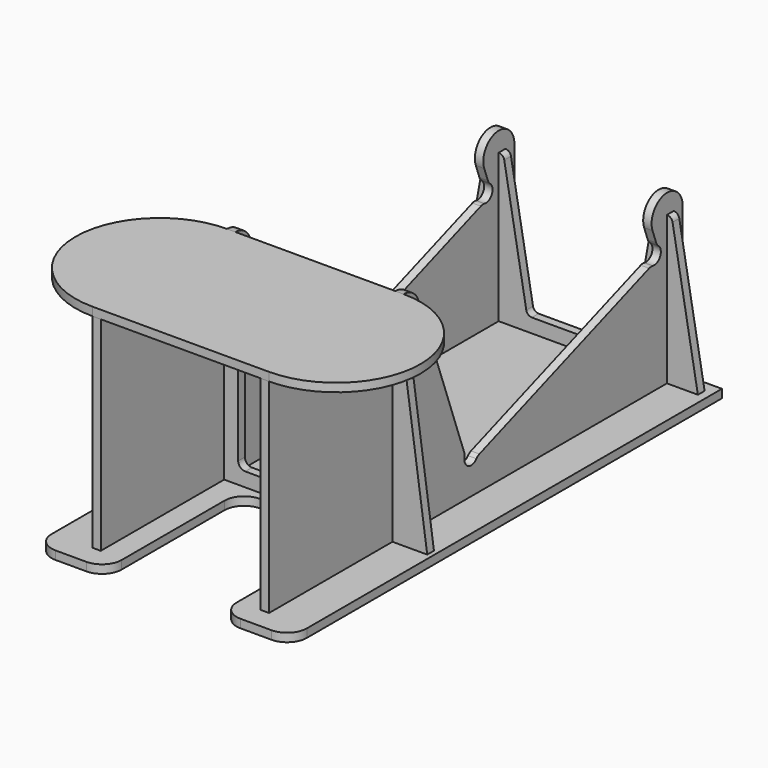
from build123d import *

# Parameters (mm, degrees)
PAD_DEPTH    = 1.5
PAD001_DEPTH = 1.5
SKETCH002_R  = 3.15
PAD002_DEPTH = 3
PAD003_DEPTH = 3
PAD004_DEPTH = 3
PAD005_DEPTH = 3


with BuildPart() as leftangle_b:
    # Sketch → Pad (new body, symmetric)
    with BuildSketch(Plane.YZ.offset(-30)):
        with BuildLine():
            ThreePointArc((-55.582745, 71.08002), (-58.145558, 74.419944), (-62.160593, 75.685879))
            Line((-62.160593, 75.685879), (-62.160593, 72.685879))
            Line((-62.160593, 72.685879), (-122.160593, 72.685879))
            Line((-122.160593, 72.685879), (-122.160593, 0))
            Line((-122.160593, 0), (-62.160593, 0))
            Line((62.160593, 0), (-62.160593, 0))
            Line((62.160593, 52.887103), (62.160593, 0))
            ThreePointArc((62.160593, 52.887103), (54.040443, 59.700718), (48.740392, 50.520759))
            Line((48.740392, 50.520759), (50.365893, 46.054732))
            ThreePointArc((50.365893, 46.054732), (50.748716, 45.330174), (51.31332, 44.73624))
            ThreePointArc((48.848712, 39.450871), (52.160593, 41.123833), (51.31332, 44.73624))
            ThreePointArc((48.848712, 39.450871), (48.030811, 39.50161), (47.229695, 39.329133))
            Line((-28.420537, 11.7947), (47.229695, 39.329133))
            ThreePointArc((-28.420537, 11.7947), (-29.145094, 11.411877), (-29.739029, 10.847273))
            ThreePointArc((-35.024397, 13.311881), (-33.351435, 10), (-29.739029, 10.847273))
            ThreePointArc((-35.024397, 13.311881), (-34.973659, 14.129782), (-35.146136, 14.930899))
            Line((-55.582745, 71.08002), (-35.146136, 14.930899))
        make_face()
    extrude(amount=PAD_DEPTH, both=True)


with BuildPart() as rightangle_b:
    # Sketch001 → Pad001 (new body, symmetric)
    with BuildSketch(Plane.YZ.offset(30)):
        with BuildLine():
            ThreePointArc((-55.582745, 71.08002), (-58.145558, 74.419944), (-62.160593, 75.685879))
            Line((-62.160593, 75.685879), (-62.160593, 72.685879))
            Line((-62.160593, 72.685879), (-122.160593, 72.685879))
            Line((-122.160593, 72.685879), (-122.160593, 0))
            Line((-122.160593, 0), (-62.160593, 0))
            Line((62.160593, 0), (-62.160593, 0))
            Line((62.160593, 52.887103), (62.160593, 0))
            ThreePointArc((62.160593, 52.887103), (54.040443, 59.700718), (48.740392, 50.520759))
            Line((50.365893, 46.054732), (48.740392, 50.520759))
            ThreePointArc((50.365893, 46.054732), (50.748716, 45.330174), (51.31332, 44.73624))
            ThreePointArc((48.848712, 39.450871), (52.160593, 41.123833), (51.31332, 44.73624))
            ThreePointArc((48.848712, 39.450871), (48.030811, 39.50161), (47.229695, 39.329133))
            Line((-28.420537, 11.7947), (47.229695, 39.329133))
            ThreePointArc((-28.420537, 11.7947), (-29.145094, 11.411877), (-29.739029, 10.847273))
            ThreePointArc((-35.024397, 13.311881), (-33.351435, 10), (-29.739029, 10.847273))
            ThreePointArc((-35.024397, 13.311881), (-34.973659, 14.129782), (-35.146136, 14.930899))
            Line((-55.582745, 71.08002), (-35.146136, 14.930899))
        make_face()
    extrude(amount=PAD001_DEPTH, both=True)


with BuildPart() as base_b:
    # Sketch002 (on Face1 of ReferencePad) → Pad002 (new body)
    with BuildSketch(Plane.YX):
        with BuildLine():
            Line((-129.839407, -38.5), (-129.839407, -27.5))
            ThreePointArc((-122.839407, -20.5), (-127.789154, -22.550253), (-129.839407, -27.5))
            Line((-122.839407, -20.5), (-77, -20.5))
            ThreePointArc((-77, -20.5), (-72.050253, -18.449747), (-70, -13.5))
            Line((-70, -13.5), (-70, 13.5))
            ThreePointArc((-70, 13.5), (-72.050253, 18.449747), (-77, 20.5))
            Line((-77, 20.5), (-122.839407, 20.5))
            ThreePointArc((-129.839407, 27.5), (-127.789154, 22.550253), (-122.839407, 20.5))
            Line((-129.839407, 27.5), (-129.839407, 38.5))
            ThreePointArc((-122.839407, 45.5), (-127.789154, 43.449747), (-129.839407, 38.5))
            Line((-122.839407, 45.5), (62.160593, 45.5))
            Line((62.160593, 45.5), (62.160593, -45.5))
            Line((62.160593, -45.5), (36.5, -45.5))
            ThreePointArc((36.5, -45.5), (31.550253, -47.550253), (29.5, -52.5))
            Line((29.5, -52.5), (29.5, -97.5))
            ThreePointArc((22.5, -104.5), (27.449747, -102.449747), (29.5, -97.5))
            Line((22.5, -104.5), (-22.5, -104.5))
            ThreePointArc((-29.5, -97.5), (-27.449747, -102.449747), (-22.5, -104.5))
            Line((-29.5, -97.5), (-29.5, -52.5))
            ThreePointArc((-29.5, -52.5), (-31.550253, -47.550253), (-36.5, -45.5))
            Line((-36.5, -45.5), (-122.839407, -45.5))
            ThreePointArc((-129.839407, -38.5), (-127.789154, -43.449747), (-122.839407, -45.5))
        make_face()
        with Locations((-12.7, -96.3)):
            Circle(SKETCH002_R, mode=Mode.SUBTRACT)
        with Locations((-12.7, -70.9)):
            Circle(SKETCH002_R, mode=Mode.SUBTRACT)
        with Locations((12.7, -70.9)):
            Circle(SKETCH002_R, mode=Mode.SUBTRACT)
        with Locations((12.7, -96.3)):
            Circle(SKETCH002_R, mode=Mode.SUBTRACT)
    extrude(amount=PAD002_DEPTH)


with BuildPart() as hand_b:
    # Sketch003 (on Face1 of ReferencePad001) → Pad003 (new body)
    with BuildSketch(Plane(origin=(0, 0, 72.685879), x_dir=(0, -1, 0), z_dir=(0, 0, 1))):
        with BuildLine():
            ThreePointArc((122.160593, 31.5), (92.160593, 61.5), (62.160593, 31.5))
            Line((62.160593, 31.5), (62.160593, -31.5))
            ThreePointArc((62.160593, -31.5), (92.160593, -61.5), (122.160593, -31.5))
            Line((122.160593, 31.5), (122.160593, -31.5))
        make_face()
    extrude(amount=PAD003_DEPTH)


with BuildPart() as stabilizer_far_b:
    # Sketch004 (on Face1 of ReferencePad001001) → Pad004 (new body)
    with BuildSketch(Plane.ZX.offset(62.160593)):
        with BuildLine():
            Line((0, 42.529511), (51.208904, 33.5))
            ThreePointArc((52.887103, 31.5), (52.411973, 32.805407), (51.208904, 33.5))
            Line((52.887103, 31.5), (52.887103, 28.5))
            ThreePointArc((51.208904, 26.5), (52.411973, 27.194593), (52.887103, 28.5))
            Line((51.208904, 26.5), (6.678199, 18.648035))
            ThreePointArc((6.678199, 18.648035), (5.475129, 17.953443), (5, 16.648035))
            Line((5, 16.648035), (5, -16.648035))
            ThreePointArc((5, -16.648035), (5.475129, -17.953443), (6.678199, -18.648035))
            Line((6.678199, -18.648035), (51.208904, -26.5))
            ThreePointArc((52.887103, -28.5), (52.411973, -27.194593), (51.208904, -26.5))
            Line((52.887103, -28.5), (52.887103, -31.5))
            ThreePointArc((51.208904, -33.5), (52.411973, -32.805407), (52.887103, -31.5))
            Line((51.208904, -33.5), (0, -42.529511))
            Line((0, -42.529511), (0, 42.529511))
        make_face()
    extrude(amount=-PAD004_DEPTH)


with BuildPart() as stabilizer_far_b_1:
    # Body004 placement: moved
    add(stabilizer_far_b.part.moved(Location((0, -4, 0))))


with BuildPart() as stabilizer_close_b:
    # Sketch005 (on Face1 of ReferencePad001002) → Pad005 (new body)
    with BuildSketch(Plane(origin=(0, -122.160593, 0), x_dir=(0, 0, -1), z_dir=(0, -1, 0))):
        with BuildLine():
            Line((-70.533812, -33.97567), (0, -43.888551))
            Line((0, -43.888551), (0, 43.888551))
            Line((0, 43.888551), (-70.533812, 33.97567))
            ThreePointArc((-70.533812, 33.97567), (-72.072653, 33.140148), (-72.685879, 31.5))
            Line((-72.685879, 31.5), (-72.685879, -31.5))
            ThreePointArc((-72.685879, -31.5), (-72.072653, -33.140148), (-70.533812, -33.97567))
        make_face()
        with BuildLine():
            Line((-65.185879, -23.5), (-7.5, -23.5))
            ThreePointArc((-7.5, -23.5), (-5.732233, -22.767767), (-5, -21))
            Line((-5, -21), (-5, 21))
            ThreePointArc((-5, 21), (-5.732233, 22.767767), (-7.5, 23.5))
            Line((-7.5, 23.5), (-65.185879, 23.5))
            ThreePointArc((-65.185879, 23.5), (-66.953646, 22.767767), (-67.685879, 21))
            Line((-67.685879, 21), (-67.685879, -21))
            ThreePointArc((-67.685879, -21), (-66.953646, -22.767767), (-65.185879, -23.5))
        make_face(mode=Mode.SUBTRACT)
    extrude(amount=PAD005_DEPTH)


with BuildPart() as stabilizer_close_b_1:
    # Body005 placement: moved
    add(stabilizer_close_b.part.moved(Location((0, 58, 0))))


solid = Compound([leftangle_b.part, rightangle_b.part, base_b.part, hand_b.part, stabilizer_far_b_1.part, stabilizer_close_b_1.part])
